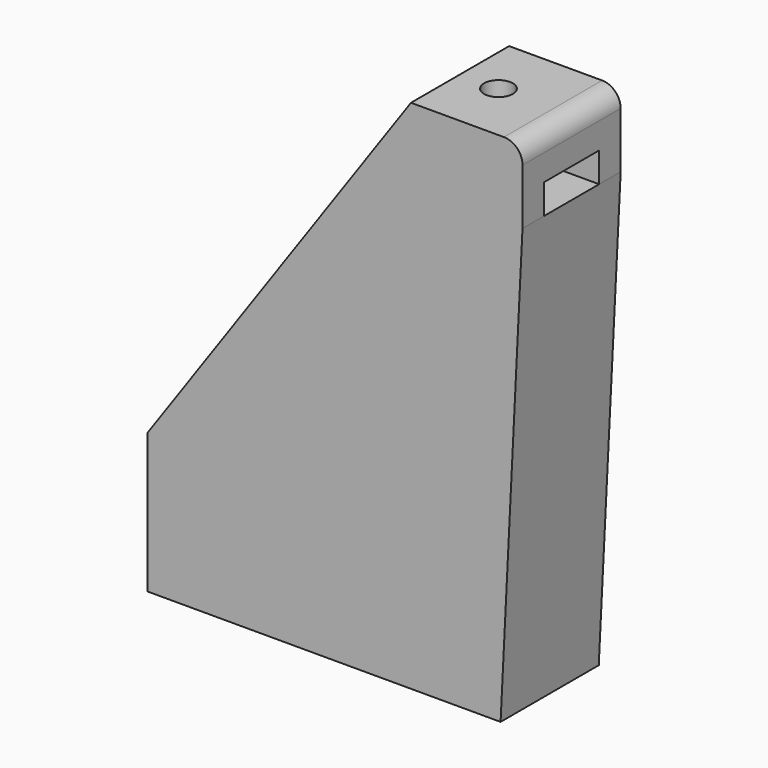
from build123d import *

# Parameters (mm, degrees)
PAD034_DEPTH    = 13.2
SKETCH109_R     = 1.55
POCKET067_DEPTH = 80
SKETCH110_W     = 28.3584052975
SKETCH110_H     = 7.4
POCKET068_DEPTH = 51
SKETCH112_R     = 1.55
POCKET069_DEPTH = 10
FILLET_R        = 2
SKETCH113_W     = 3.2
SKETCH113_H     = 7.4
POCKET070_DEPTH = 12


with BuildPart() as part:
    # Sketch108 → Pad034 (new body)
    with BuildSketch(Plane.XZ):
        Polygon((40.3584052975, 55.5), (40.3584052975, 47.5), (38, 0), (0, 0), (0, 15), (28.3584052975, 55.5), align=None)
    extrude(amount=PAD034_DEPTH)

    # Sketch109 (on Face3 of Pad034) → Pocket067 (cut)
    with BuildSketch(Plane(origin=(0, 0, 0), x_dir=(1, 0, 0), z_dir=(0, 0, -1))):
        with Locations((4.9809052975, 6.6)):
            Circle(SKETCH109_R)
        with Locations((20.3584052975, 6.6)):
            Circle(SKETCH109_R)
    extrude(amount=-POCKET067_DEPTH, mode=Mode.SUBTRACT)

    # Sketch110 (on Face2 of Pocket067) → Pocket068 (cut)
    with BuildSketch(Plane(origin=(0, 0, 55.5), x_dir=(-1, 0, 0), z_dir=(0, 0, 1))):
        with Locations((-14.1792026487, 6.6)):
            Rectangle(SKETCH110_W, SKETCH110_H)
    extrude(amount=-POCKET068_DEPTH, mode=Mode.SUBTRACT)

    # Sketch112 (on Face2 of Pocket068) → Pocket069 (cut)
    with BuildSketch(Plane(origin=(0, 0, 55.5), x_dir=(-1, 0, 0), z_dir=(0, 0, 1))):
        with Locations((-32.4934052975, 6.6)):
            Circle(SKETCH112_R)
    extrude(amount=-POCKET069_DEPTH, mode=Mode.SUBTRACT)

    # Fillet
    fillet_edges = [part.edges().sort_by_distance(p)[0] for p in [
        (40.358405, -6.6, 55.5),
    ]]
    fillet(fillet_edges, radius=FILLET_R)

    # Sketch113 (on Face1 of Fillet) → Pocket070 (cut)
    with BuildSketch(Plane(origin=(40.3584052975, 0, 0), x_dir=(0, 0, 1), z_dir=(1, 0, 0))):
        with Locations((49.1, 6.6)):
            Rectangle(SKETCH113_W, SKETCH113_H)
    extrude(amount=-POCKET070_DEPTH, mode=Mode.SUBTRACT)


solid = part.part
